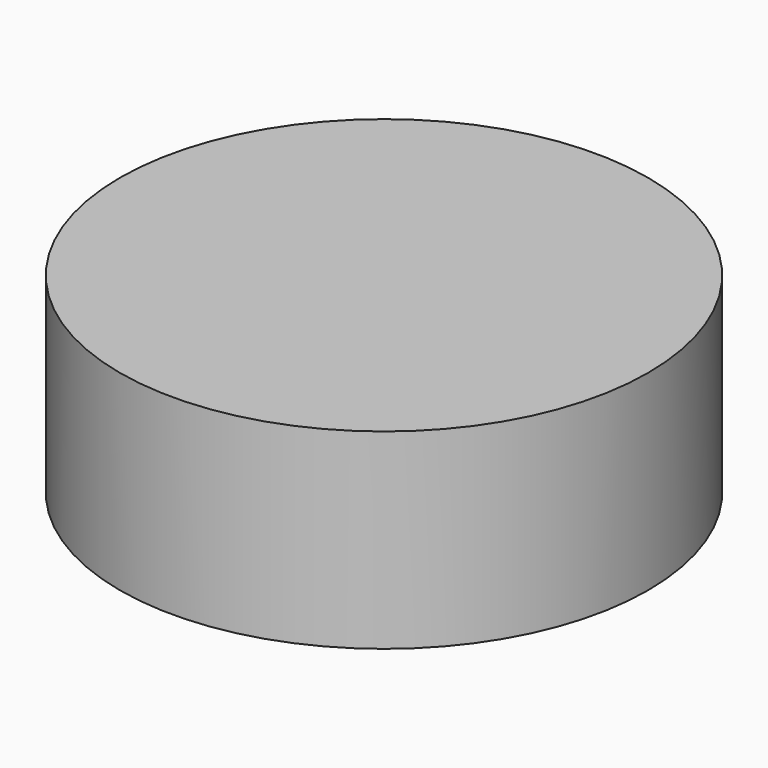
from build123d import *

# Parameters (mm, degrees)
F0_R     = 876.3
F1_DEPTH = 635
F2_R     = 863.6
F3_DEPTH = 609.6


with BuildPart() as f1:
    # F0 (on Top) → F1 (new body)
    with BuildSketch(Plane.XY):
        Circle(F0_R)
    extrude(amount=F1_DEPTH)

    # F2 (on face) → F3 (cut)
    with BuildSketch(Plane.XY):
        Circle(F2_R)
    extrude(amount=F3_DEPTH, mode=Mode.SUBTRACT)


solid = f1.part
